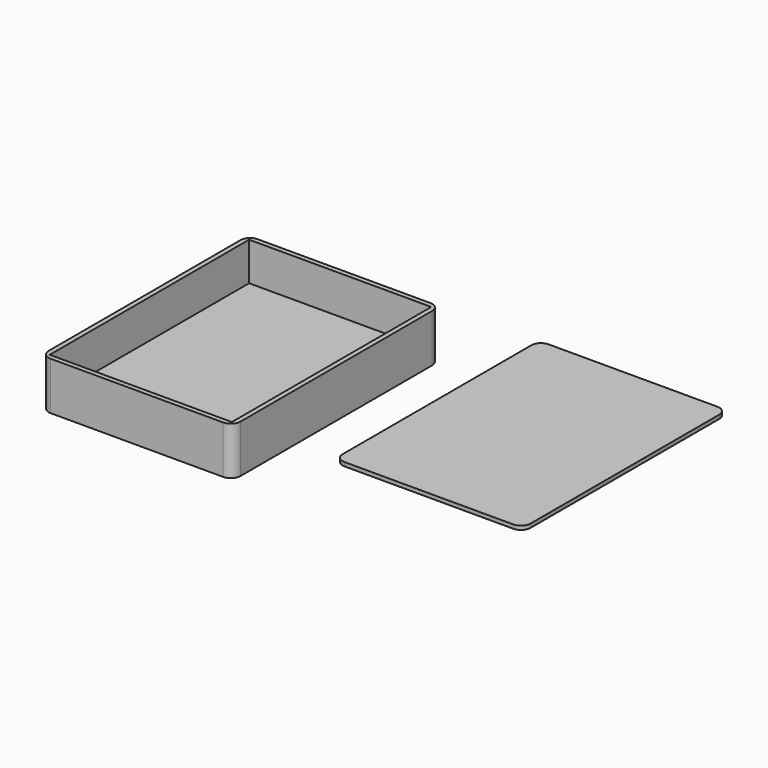
from build123d import *

# Parameters (mm, degrees)
F0_W     = 100
F0_H     = 135
F1_DEPTH = 5
F2_W     = 100
F2_H     = 135
F2_W_2   = 95
F2_H_2   = 130
F3_DEPTH = 20
F4_R     = 5
F5_W     = 98
F5_H     = 133
F6_DEPTH = 2
F7_R     = 5


with BuildPart() as f1:
    # F0 (on Top) → F1 (new body)
    with BuildSketch(Plane.XY):
        Rectangle(F0_W, F0_H)
    extrude(amount=-F1_DEPTH)

    # F2 (on face) → F3 (join)
    with BuildSketch(Plane.XY):
        Rectangle(F2_W, F2_H)
        Rectangle(F2_W_2, F2_H_2, mode=Mode.SUBTRACT)
    extrude(amount=F3_DEPTH)

    # F4
    f4_edges = [f1.edges().sort_by_distance(p)[0] for p in [
        (50, -67.5, 7.5),
        (-50, -67.5, 7.5),
        (-50, 67.5, 7.5),
        (50, 67.5, 7.5),
    ]]
    fillet(f4_edges, radius=F4_R)


with BuildPart() as f6:
    # F5 (on face) → F6 (new body)
    with BuildSketch(Plane.XY.offset(20)):
        with Locations((151.823523, -0.394557)):
            Rectangle(F5_W, F5_H)
    extrude(amount=F6_DEPTH)

    # F7
    f7_edges = [f6.edges().sort_by_distance(p)[0] for p in [
        (102.823523, -66.894557, 21),
        (200.823523, -66.894557, 21),
        (200.823523, 66.105443, 21),
        (102.823523, 66.105443, 21),
    ]]
    fillet(f7_edges, radius=F7_R)


solid = Compound([f1.part, f6.part])
